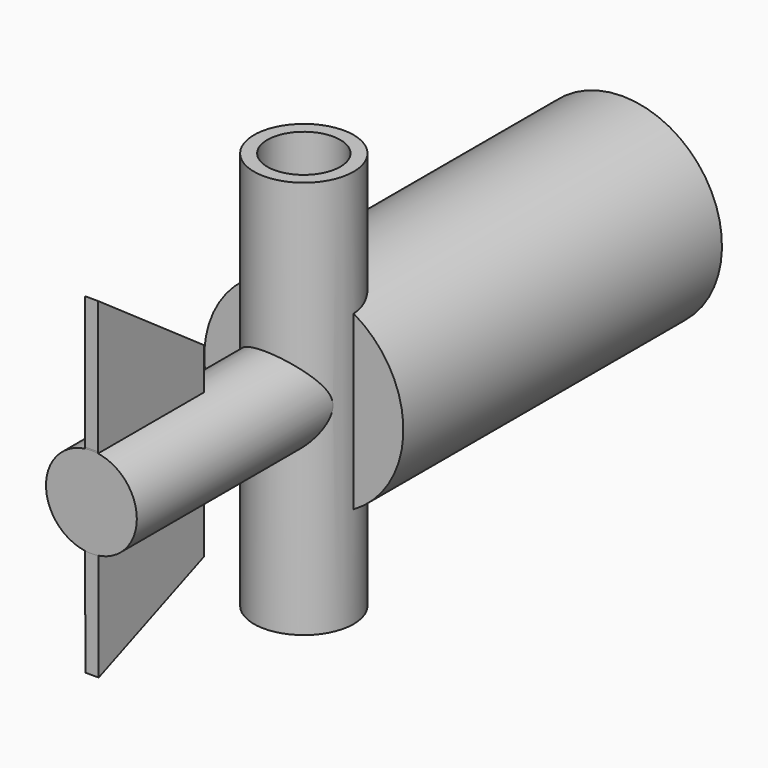
from build123d import *

# Parameters (mm, degrees)
F0_R          = 9.525
F0_R_2        = 6.985
F1_DEPTH      = 76.2
F2_R          = 8.690434
F3_DEPTH      = 50.8
F5_DEPTH      = 1.27
F5_DEPTH_BACK = 1.27
F6_R          = 6.985
F7_DEPTH      = 76.2
F8_W          = 76.2
F8_H          = 19.05
F10_R         = 4.445
F11_DEPTH     = 50.8
F12_DEPTH     = 87.884
F13_R         = 1.905
F14_DEPTH     = 12.7


with BuildPart() as f1:
    # F0 (on Top) → F1 (new body)
    with BuildSketch(Plane.XY):
        Circle(F0_R)
        Circle(F0_R_2, mode=Mode.SUBTRACT)
    extrude(amount=F1_DEPTH)

    # F2 (on Front) → F3 (join)
    with BuildSketch(Plane.XZ):
        with Locations((0, 38.1)):
            Circle(F2_R)
    extrude(amount=F3_DEPTH)

    # F4 (on Right) → F5 (join, two sides)
    with BuildSketch(Plane.YZ) as f5_sk:
        Polygon((-50.8, 72.39), (-50.8, 46.99), (-25.4, 46.99), (-25.4, 54.61), align=None)
        Polygon((-25.4, 46.99), (-50.8, 46.99), (-50.647298, 8.890306), (-25.4, 19.05), align=None)
    extrude(amount=F5_DEPTH)
    extrude(f5_sk.sketch, amount=-F5_DEPTH_BACK)

    # F6 (on Top) → F7 (cut)
    with BuildSketch(Plane.XY):
        Circle(F6_R)
    extrude(amount=F7_DEPTH, mode=Mode.SUBTRACT)

    # F8 (on Right) → F9 (revolve)
    with BuildSketch(Plane.YZ):
        with Locations((38.1, 45.344532)):
            Rectangle(F8_W, F8_H)
    revolve(axis=Axis((0, 44.6622, 35.819532), (0, 1, 0)))

    # F10 (on face) → F11 (cut)
    with BuildSketch(Plane(origin=(0, 76.2, 0), x_dir=(-1, 0, 0), z_dir=(0, 1, 0))):
        with Locations((0, 35.819532)):
            Circle(F10_R)
    extrude(amount=-F11_DEPTH, mode=Mode.SUBTRACT)

    # F6 (on Top) → F12 (cut)
    with BuildSketch(Plane.XY):
        Circle(F6_R)
    extrude(amount=F12_DEPTH, mode=Mode.SUBTRACT)

    # F13 (on Front) → F14 (cut)
    with BuildSketch(Plane.XZ):
        with Locations((0, 38.175505)):
            Circle(F13_R)
    extrude(amount=-F14_DEPTH, mode=Mode.SUBTRACT)


solid = f1.part
